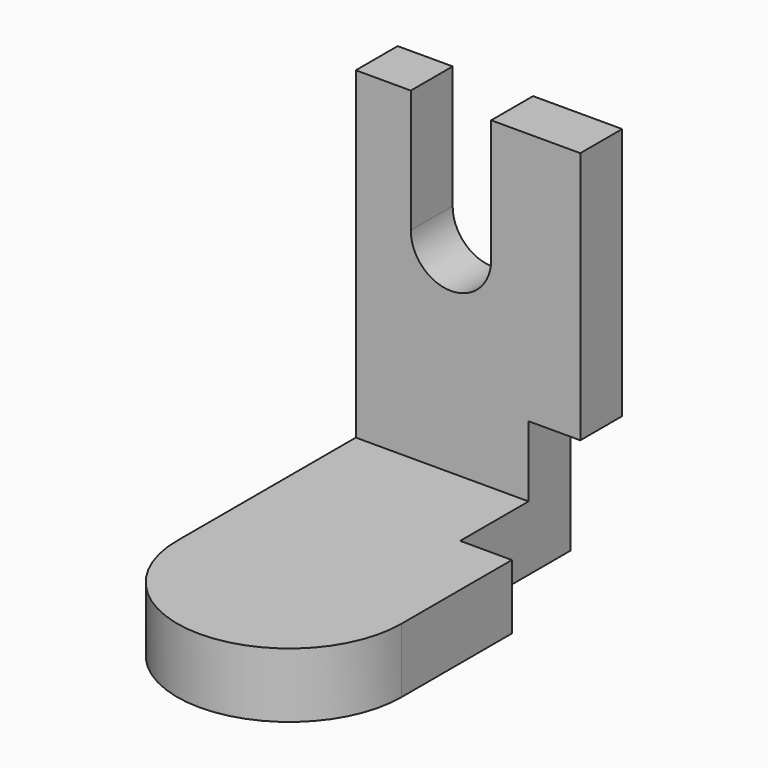
from build123d import *

# Parameters (mm, degrees)
F0_W     = 44.0846085548
F0_H     = 54.1256517172
F1_DEPTH = 12.7
F2_W     = 44.0846085548
F2_H     = 10.2772433311
F3_DEPTH = 63.5
F5_DEPTH = 10.16
F6_W     = 15.7867255621
F6_H     = 24.1755610228
F7_DEPTH = 10.2782433311


with BuildPart() as f1:
    # F0 (on Top) → F1 (new body)
    with BuildSketch(Plane.XY):
        with BuildLine():
            ThreePointArc((-22.0423042774, -27.0628258586), (0, -49.105130136), (22.0423042774, -27.0628258586))
            Line((22.0423042774, -27.0628258586), (-22.0423042774, -27.0628258586))
        make_face()
        Rectangle(F0_W, F0_H)
    extrude(amount=F1_DEPTH)

    # F2 (on face) → F3 (join)
    with BuildSketch(Plane.XY.offset(12.7)):
        with Locations((0, 21.9242041931)):
            Rectangle(F2_W, F2_H)
    extrude(amount=F3_DEPTH)

    # F4 (on face) → F5 (cut)
    with BuildSketch(Plane.YZ.offset(22.0423042774)):
        Polygon((16.7855825275, 12.7), (0, 12.7), (0, 0), (27.0628258586, 0), (27.0628258586, 26.5619661659), (16.7855825275, 26.5619661659), align=None)
    extrude(amount=-F5_DEPTH, mode=Mode.SUBTRACT)

    # F6 (on face) → F7 (cut, through all)
    with BuildSketch(Plane.XZ.offset(-16.7855825275)):
        with BuildLine():
            Line((4.5446627773, 52.0244389772), (-11.2420627847, 52.0244389772))
            ThreePointArc((-11.2420627847, 52.0244389772), (-3.3487000037, 44.1310761962), (4.5446627773, 52.0244389772))
        make_face()
        with Locations((-3.3487000037, 64.1122194886)):
            Rectangle(F6_W, F6_H)
    extrude(amount=-F7_DEPTH, mode=Mode.SUBTRACT)


solid = f1.part
